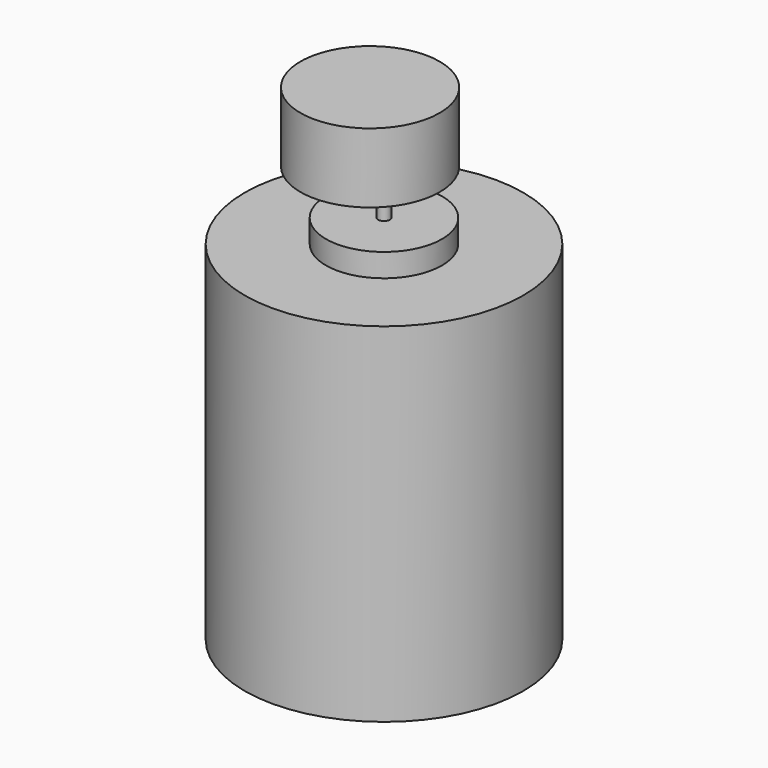
from build123d import *

# Parameters (mm, degrees)
F0_R     = 6
F0_R_2   = 2.5
F0_R_3   = 0.25
F1_DEPTH = 15
F2_DEPTH = 1
F3_DEPTH = 6.25
F4_R     = 3
F5_DEPTH = 3


with BuildPart() as f1:
    # F0 (on Top) → F1 (new body)
    with BuildSketch(Plane.XY):
        Circle(F0_R)
        Circle(F0_R_2, mode=Mode.SUBTRACT)
        Circle(F0_R_2)
        Circle(F0_R_3, mode=Mode.SUBTRACT)
    extrude(amount=-F1_DEPTH)

    # F0 (on Top) → F2 (join)
    with BuildSketch(Plane.XY):
        Circle(F0_R_2)
        Circle(F0_R_3, mode=Mode.SUBTRACT)
    extrude(amount=F2_DEPTH)

    # F0 (on Top) → F3 (join)
    with BuildSketch(Plane.XY):
        Circle(F0_R_3)
    extrude(amount=F3_DEPTH)

    # F4 (on face) → F5 (join)
    with BuildSketch(Plane.XY.offset(6.25)):
        with Locations((0, -0.75)):
            Circle(F4_R)
    extrude(amount=-F5_DEPTH)


solid = f1.part
